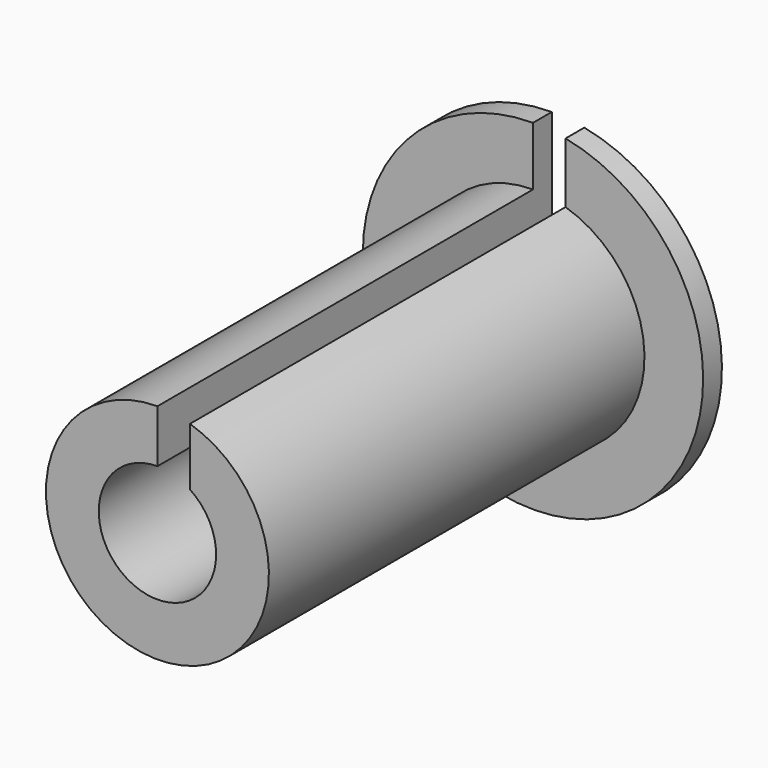
from build123d import *

# Parameters (mm, degrees)
F2_R     = 6.35
F3_DEPTH = 101.6
F5_DEPTH = 127


with BuildPart() as f1:
    # F0 (on Top) → F1 (revolve)
    with BuildSketch(Plane.XY):
        Polygon((0, 37.726658), (0, -15.613342), (12.065, -15.613342), (12.065, 35.186658), (18.415, 35.186658), (18.415, 37.726658), align=None)
    revolve(axis=Axis((0, 11.056658, 0), (0, -1, 0)))

    # F2 (on face) → F3 (cut)
    with BuildSketch(Plane(origin=(0, 37.726658, 0), x_dir=(-1, 0, 0), z_dir=(0, 1, 0))):
        Circle(F2_R)
    extrude(amount=-F3_DEPTH, mode=Mode.SUBTRACT)

    # F4 (on face) → F5 (cut)
    with BuildSketch(Plane(origin=(0, 37.726658, 0), x_dir=(-1, 0, 0), z_dir=(0, 1, 0))):
        with BuildLine():
            Line((0, 6.35), (0, 18.415))
            ThreePointArc((0, 18.415), (-1.770995, 18.329643), (-3.525572, 18.074362))
            Line((-3.525572, 18.074362), (-3.525572, 5.281367))
            ThreePointArc((-3.525572, 5.281367), (-1.841985, 6.076972), (0, 6.35))
        make_face()
    extrude(amount=-F5_DEPTH, mode=Mode.SUBTRACT)


solid = f1.part
